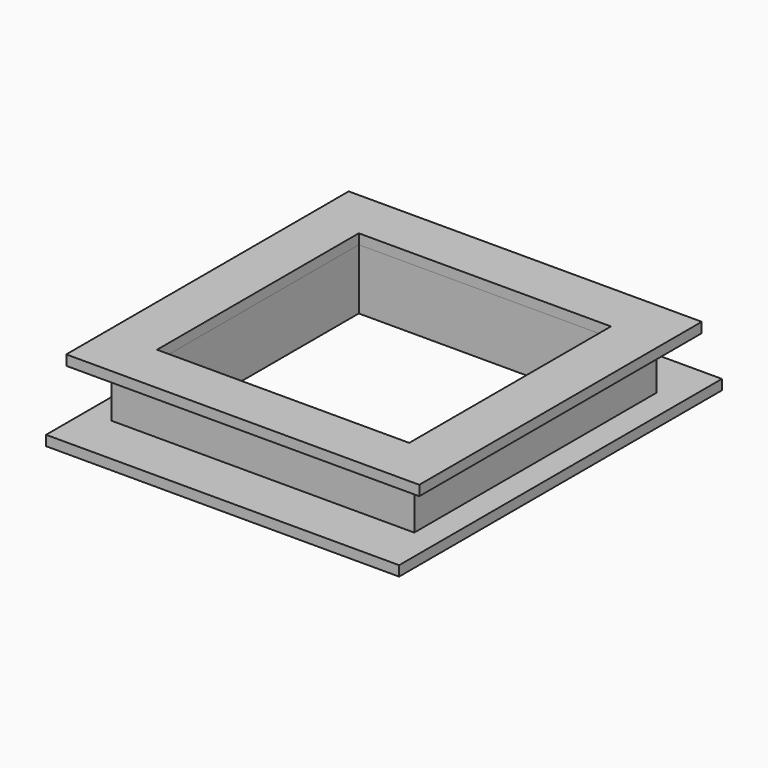
from build123d import *

# Parameters (mm, degrees)
F0_W     = 30
F0_H     = 30
F0_W_2   = 25
F0_H_2   = 25
F1_DEPTH = 5
F2_W     = 35
F2_H     = 35
F2_W_2   = 30
F2_H_2   = 30
F2_W_3   = 25
F2_H_3   = 25
F3_DEPTH = 1
F4_W     = 35
F4_H     = 40
F4_W_2   = 30
F4_H_2   = 30
F4_W_3   = 25
F4_H_3   = 25
F5_DEPTH = 1
F6_R     = 0.75
F7_DEPTH = 1.001


with BuildPart() as f1:
    # F0 (on Top) → F1 (new body)
    with BuildSketch(Plane.XY):
        Rectangle(F0_W, F0_H)
        Rectangle(F0_W_2, F0_H_2, mode=Mode.SUBTRACT)
    extrude(amount=F1_DEPTH)

    # F4 (on face) → F5 (join)
    with BuildSketch(Plane(origin=(0, 0, 0), x_dir=(1, 0, 0), z_dir=(0, 0, -1))):
        Rectangle(F4_W, F4_H)
        Rectangle(F4_W_2, F4_H_2, mode=Mode.SUBTRACT)
        Rectangle(F4_W_2, F4_H_2)
        Rectangle(F4_W_3, F4_H_3, mode=Mode.SUBTRACT)
    extrude(amount=F5_DEPTH)

    # F6 (on face) → F7 (cut, through all)
    with BuildSketch(Plane.XY):
        with Locations((-2.5, 18)):
            Circle(F6_R)
        with Locations((2.5, 18)):
            Circle(F6_R)
    extrude(amount=-F7_DEPTH, mode=Mode.SUBTRACT)


with BuildPart() as f3:
    # F2 (on face) → F3 (new body)
    with BuildSketch(Plane.XY.offset(5)):
        Rectangle(F2_W, F2_H)
        Rectangle(F2_W_2, F2_H_2, mode=Mode.SUBTRACT)
        Rectangle(F2_W_2, F2_H_2)
        Rectangle(F2_W_3, F2_H_3, mode=Mode.SUBTRACT)
    extrude(amount=F3_DEPTH)


solid = Compound([f1.part, f3.part])
